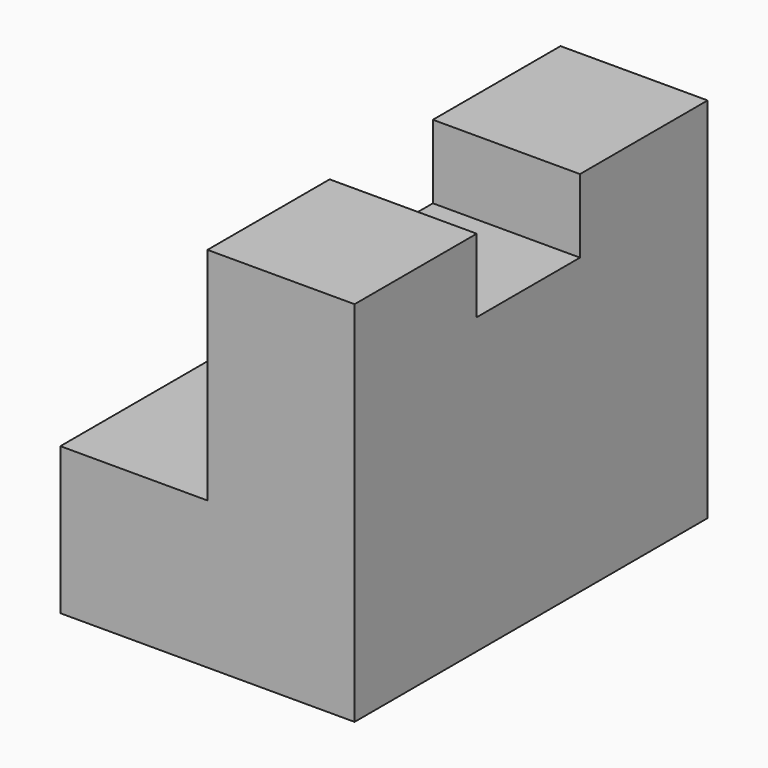
from build123d import *

# Parameters (mm, degrees)
F1_DEPTH = 38.1
F2_W     = 12.7
F2_H     = 11.142593
F3_DEPTH = 6.35


with BuildPart() as f1:
    # F0 (on Front) → F1 (new body)
    with BuildSketch(Plane.XZ):
        Polygon((-25.4, 0), (0, 0), (0, 31.75), (-12.7, 31.75), (-12.7, 12.7), (-25.4, 12.7), align=None)
    extrude(amount=F1_DEPTH)

    # F2 (on face) → F3 (cut)
    with BuildSketch(Plane.XY.offset(31.75)):
        with Locations((-6.35, -19.344779)):
            Rectangle(F2_W, F2_H)
    extrude(amount=-F3_DEPTH, mode=Mode.SUBTRACT)


solid = f1.part
